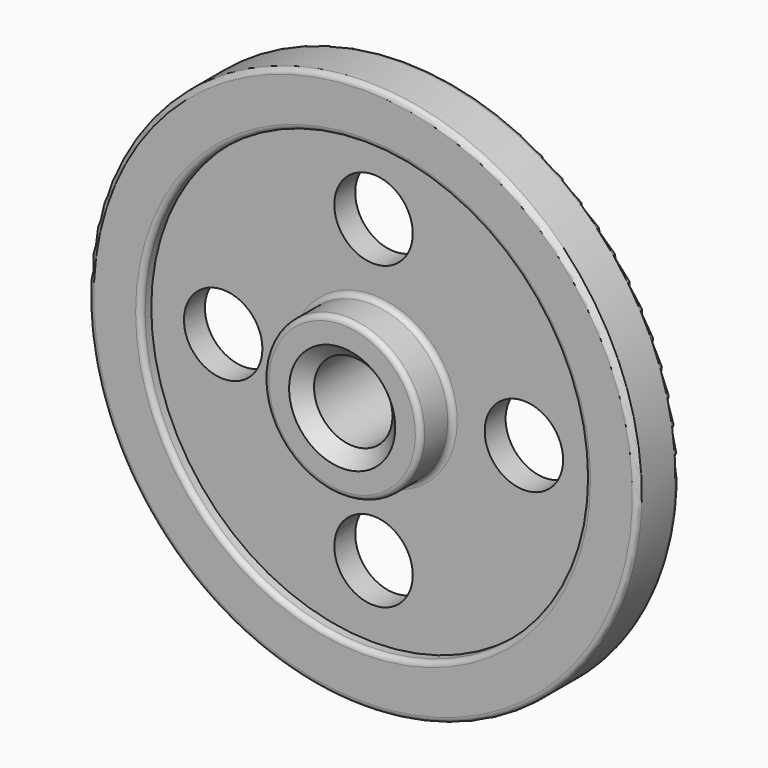
from build123d import *

# Parameters (mm, degrees)
F2_R     = 19.05
F3_DEPTH = 25.4
F4_R     = 2.54
F5_R     = 2.54
F6_SIZE  = 6.731


with BuildPart() as f1:
    # F0 (on Right) → F1 (revolve)
    with BuildSketch(Plane.YZ):
        Polygon((0, 133.35), (0, 38.1), (6.35, 38.1), (6.35, 107.95), (12.7, 107.95), (12.7, 133.35), align=None)
        Polygon((-6.35, 38.1), (0, 38.1), (0, 133.35), (-12.7, 133.35), (-12.7, 107.95), (-6.35, 107.95), align=None)
        Polygon((0, 38.1), (0, 19.05), (25.4, 19.05), (25.4, 38.1), (6.35, 38.1), align=None)
        Polygon((-25.4, 19.05), (0, 19.05), (0, 38.1), (-6.35, 38.1), (-25.4, 38.1), align=None)
    revolve(axis=Axis((0, 38.028601557, 0), (0, 1, 0)))

    # F2 (on face) → F3 (cut)
    with BuildSketch(Plane.XZ.offset(6.35)):
        with Locations((-73.025, 0)):
            Circle(F2_R)
        with Locations((0, -73.025)):
            Circle(F2_R)
        with Locations((73.025, 0)):
            Circle(F2_R)
        with BuildLine():
            ThreePointArc((19.05, 73.025), (-13.4703841816, 86.4953841816), (0, 53.975))
            ThreePointArc((0, 53.975), (13.4703841816, 59.5546158184), (19.05, 73.025))
        make_face()
    extrude(amount=-F3_DEPTH, mode=Mode.SUBTRACT)

    # F4
    f4_edges = [f1.edges().sort_by_distance(p)[0] for p in [
        (0, -6.35, -38.1),
        (0, -25.4, -38.1),
        (0, -12.7, -107.95),
        (0, -12.7, -133.35),
        (0, 25.4, -38.1),
    ]]
    fillet(f4_edges, radius=F4_R)

    # F5
    f5_edges = [f1.edges().sort_by_distance(p)[0] for p in [
        (0, 25.4, -35.56),
        (0, 6.35, -38.1),
        (0, 12.7, -107.95),
        (0, 12.7, -133.35),
    ]]
    fillet(f5_edges, radius=F5_R)

    # F6
    f6_edges = [f1.edges().sort_by_distance(p)[0] for p in [
        (0, -25.4, -19.05),
        (0, 25.4, -19.05),
    ]]
    chamfer(f6_edges, length=F6_SIZE)


solid = f1.part
